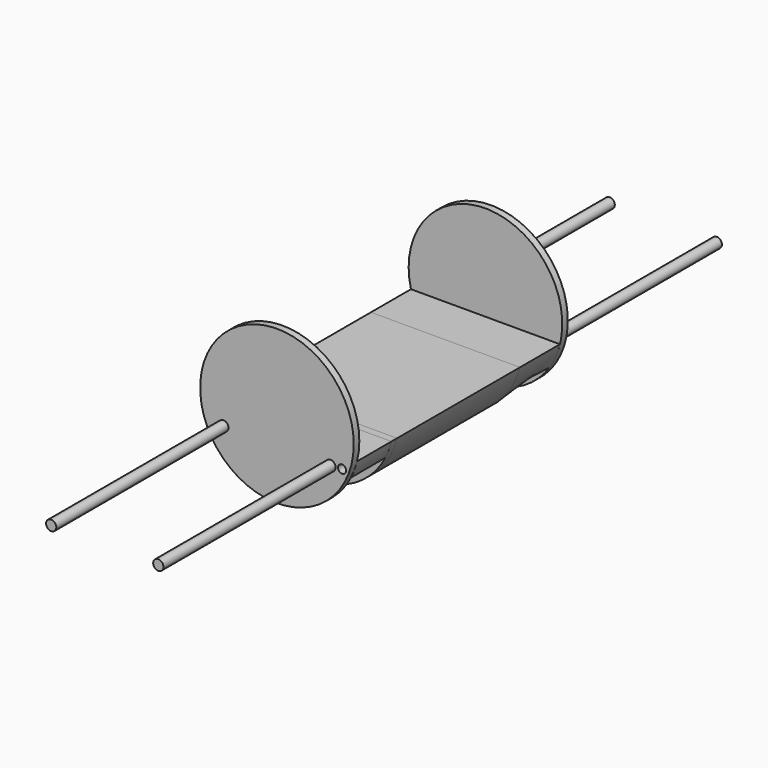
from build123d import *

# Parameters (mm, degrees)
SKETCH_R         = 1.75
EXTRUDE_DEPTH    = 33
SKETCH001_R      = 1.75
EXTRUDE002_DEPTH = 3
SKETCH002_R      = 1.75
EXTRUDE004_DEPTH = 18.5
SKETCH003_R      = 33
SKETCH003_R_2    = 1.75
EXTRUDE005_DEPTH = 3
SKETCH007_R      = 33
EXTRUDE006_DEPTH = 3
SKETCH004_R      = 2.2
EXTRUDE007_DEPTH = 150


with BuildPart() as obj1:
    # Sketch → Extrude (new body, symmetric)
    with BuildSketch(Plane.XZ):
        with BuildLine():
            Line((-9, -31.749016), (9, -31.749016))
            ThreePointArc((9, -31.749016), (23.697558, -22.965752), (32.015621, -8))
            Line((-32.015621, -8), (32.015621, -8))
            ThreePointArc((-32.015621, -8), (-23.697558, -22.965752), (-9, -31.749016))
        make_face()
        with Locations((28, -11)):
            Circle(SKETCH_R, mode=Mode.SUBTRACT)
        with BuildLine():
            ThreePointArc((0, -18.341137), (-6.761487, -11.325504), (-16.033811, -14.318965))
            ThreePointArc((-16.033811, -14.318965), (-23.587969, -12.900463), (-17.951803, -18.126464))
            ThreePointArc((-17.951803, -18.126464), (-11.015359, -29.225559), (0, -22.156894))
            ThreePointArc((0, -22.156894), (18.2, -20.249016), (0, -18.341137))
        make_face(mode=Mode.SUBTRACT)
    extrude(amount=EXTRUDE_DEPTH, both=True)


with BuildPart() as obj2:
    # Sketch001 (on Face1 of Binder) → Extrude002 (new body)
    with BuildSketch(Plane.XZ.offset(33)):
        with BuildLine():
            ThreePointArc((9, -31.749016), (23.697558, -22.965752), (32.015621, -8))
            Line((-32.015621, -8), (32.015621, -8))
            ThreePointArc((-32.015621, -8), (-23.697558, -22.965752), (-9, -31.749016))
            Line((9, -31.749016), (-9, -31.749016))
        make_face()
        with Locations((28, -11)):
            Circle(SKETCH001_R, mode=Mode.SUBTRACT)
    extrude(amount=EXTRUDE002_DEPTH)


with BuildPart() as obj3:
    # Sketch002 (on Face1 of Binder001) → Extrude004 (new body)
    with BuildSketch(Plane.XZ.offset(36)):
        with BuildLine():
            Line((-32.015621, -8), (32.015621, -8))
            ThreePointArc((29.393877, -15), (30.903586, -11.574471), (32.015621, -8))
            Line((-29.393877, -15), (29.393877, -15))
            ThreePointArc((-32.015621, -8), (-30.903586, -11.574471), (-29.393877, -15))
        make_face()
        with Locations((28, -11)):
            Circle(SKETCH002_R, mode=Mode.SUBTRACT)
    extrude(amount=EXTRUDE004_DEPTH)


with BuildPart() as obj4:
    # Sketch003 (on Face1 of Binder002) → Extrude005 (new body)
    with BuildSketch(Plane.XZ.offset(54.5)):
        Circle(SKETCH003_R)
        with Locations((28, -11)):
            Circle(SKETCH003_R_2, mode=Mode.SUBTRACT)
    extrude(amount=EXTRUDE005_DEPTH)


with BuildPart() as loft_body:
    # Sketch005 (on Face1 of Binder003) → Loft section 0
    with BuildSketch(Plane(origin=(0, 33, 0), x_dir=(-1, 0, 0), z_dir=(0, 1, 0))):
        with BuildLine():
            ThreePointArc((9, -31.749016), (23.697558, -22.965752), (32.015621, -8))
            Line((-32.015621, -8), (32.015621, -8))
            ThreePointArc((-32.015621, -8), (-23.697558, -22.965752), (-9, -31.749016))
            Line((9, -31.749016), (-9, -31.749016))
        make_face()
    # Sketch006 → Loft section 1
    with BuildSketch(Plane(origin=(0, 54.5, 0), x_dir=(-1, 0, 0), z_dir=(0, 1, 0))):
        with BuildLine():
            Line((-32.015621, -8), (32.015621, -8))
            ThreePointArc((27.433605, -18.341137), (30.17097, -13.368343), (32.015621, -8))
            Line((-27.433605, -18.341137), (27.433605, -18.341137))
            ThreePointArc((-32.015621, -8), (-30.17097, -13.368343), (-27.433605, -18.341137))
        make_face()
    loft()


with BuildPart() as obj5:
    # Sketch007 (on Face6 of Loft) → Extrude006 (new body)
    with BuildSketch(Plane(origin=(0, 54.5, 0), x_dir=(-1, 0, 0), z_dir=(0, 1, 0))):
        Circle(SKETCH007_R)
    extrude(amount=EXTRUDE006_DEPTH)


with BuildPart() as taladros:
    # Sketch004 → Extrude007 (new body, symmetric)
    with BuildSketch(Plane.XZ):
        with Locations((-23.015621, -11.3)):
            Circle(SKETCH004_R)
        with Locations((23.015621, -11.3)):
            Circle(SKETCH004_R)
    extrude(amount=EXTRUDE007_DEPTH, both=True)


solid = Compound([obj1.part, obj2.part, obj3.part, obj4.part, loft_body.part, obj5.part, taladros.part])
